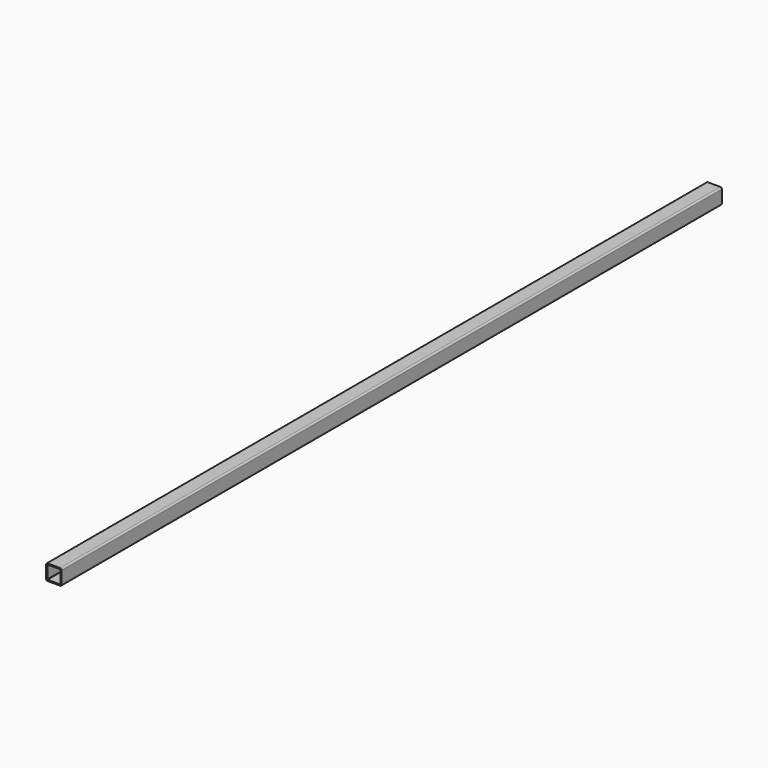
from build123d import *

# Parameters (mm, degrees)
F1_DEPTH = 2110


with BuildPart() as f1:
    # F0 (on Front) → F1 (new body)
    with BuildSketch(Plane.XZ):
        with BuildLine():
            ThreePointArc((20, 16), (18.828427, 18.828427), (16, 20))
            Line((16, 20), (-16, 20))
            ThreePointArc((-16, 20), (-18.828427, 18.828427), (-20, 16))
            Line((-20, 16), (-20, -16))
            ThreePointArc((-20, -16), (-18.828427, -18.828427), (-16, -20))
            Line((-16, -20), (16, -20))
            ThreePointArc((16, -20), (18.828427, -18.828427), (20, -16))
            Line((20, -16), (20, 16))
        make_face()
        with BuildLine():
            Line((-16, 17), (16, 17))
            ThreePointArc((16, 17), (16.707107, 16.707107), (17, 16))
            Line((17, 16), (17, -16))
            ThreePointArc((17, -16), (16.707107, -16.707107), (16, -17))
            Line((16, -17), (-16, -17))
            ThreePointArc((-16, -17), (-16.707107, -16.707107), (-17, -16))
            Line((-17, -16), (-17, 16))
            ThreePointArc((-17, 16), (-16.707107, 16.707107), (-16, 17))
        make_face(mode=Mode.SUBTRACT)
    extrude(amount=F1_DEPTH)


solid = f1.part
